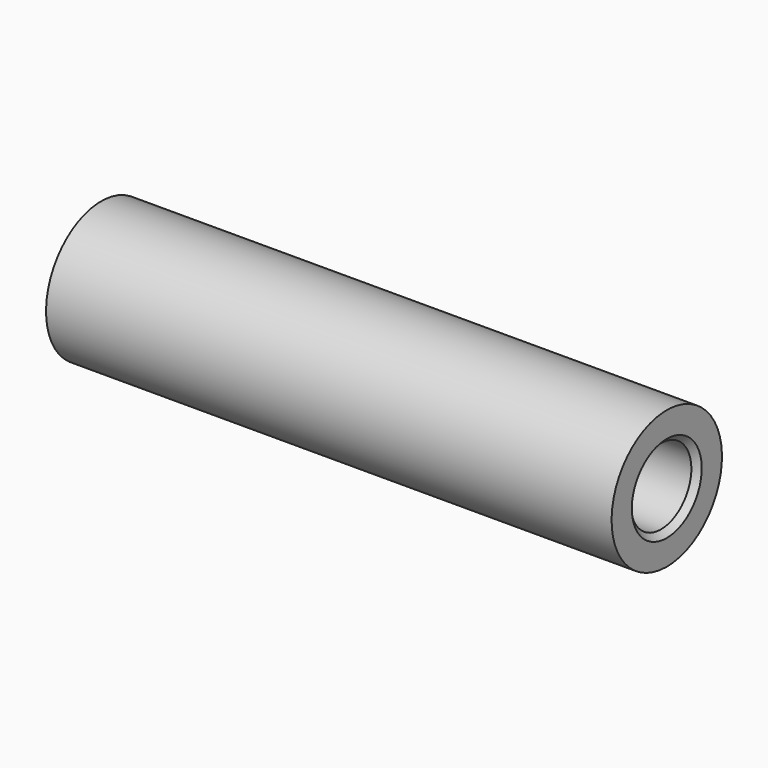
from build123d import *

# Parameters (mm, degrees)
F0_W     = 24.6
F0_H     = 1.35
F2_SIZE2 = 0.25
F2_SIZE  = 0.25


with BuildPart() as f1:
    # F0 (on Front) → F1 (revolve)
    with BuildSketch(Plane.XZ):
        with Locations((0, -2.325)):
            Rectangle(F0_W, F0_H)
    revolve(axis=Axis((-20.560347, 0, 0), (-1, 0, 0)))

    # F2
    f2_edges = [f1.edges().sort_by_distance(p)[0] for p in [
        (12.3, 0, 1.65),
        (-12.3, 0, 1.65),
        (0, 0, -1.65),
    ]]
    chamfer(f2_edges, length=F2_SIZE, length2=F2_SIZE2)


solid = f1.part
